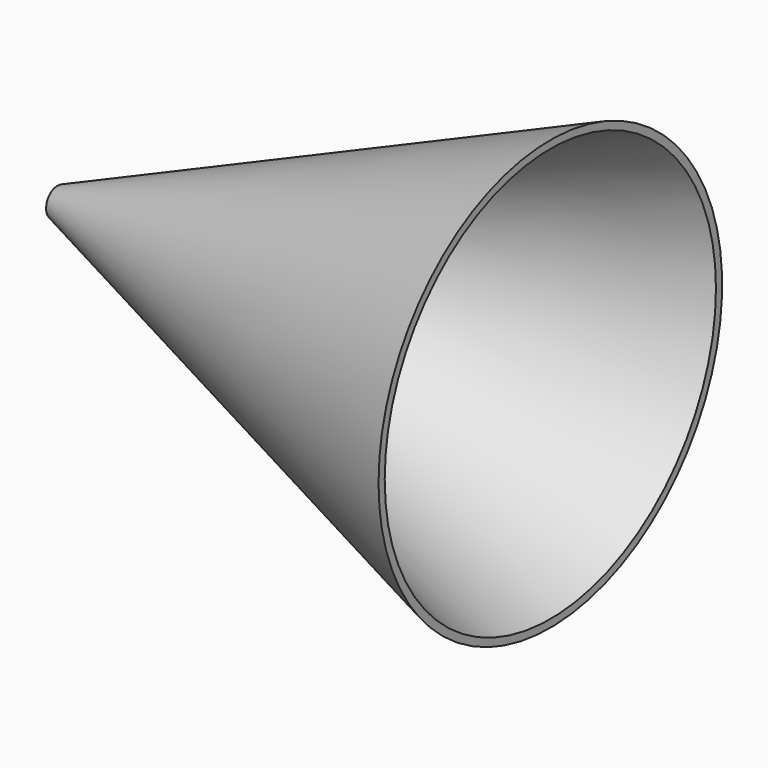
from build123d import *

# Parameters (mm, degrees)
F2_T = -1


with BuildPart() as f1:
    # F0 (on Top) → F1 (revolve)
    with BuildSketch(Plane.XY):
        Polygon((-68.843096, -2), (0, -30), (0, 0), (-68.843096, 0), align=None)
    revolve(axis=Axis((-34.421548, 0, 0), (-1, 0, 0)))

    # F2
    f2_openings = [f1.faces().sort_by_distance(p)[0] for p in [
        (-68.843096, 0, 0),
        (0, 0, 0),
    ]]
    offset(amount=F2_T, openings=f2_openings)


solid = f1.part
